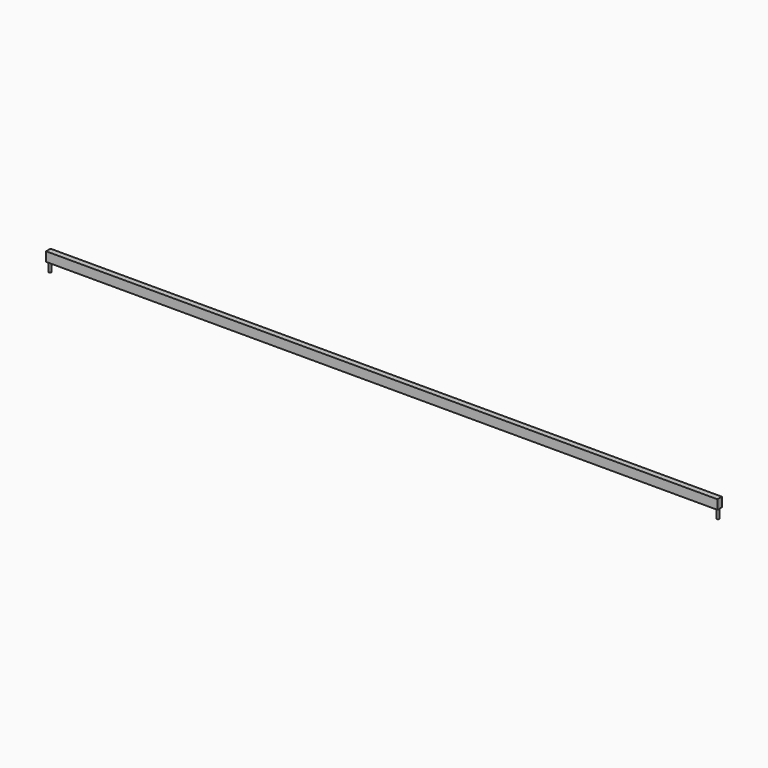
from build123d import *

# Parameters (mm, degrees)
F0_W          = 3603
F0_H          = 50
F1_DEPTH      = 15
F1_DEPTH_BACK = 15
F3_DEPTH      = 50
F4_R          = 7
F5_DEPTH      = 50


with BuildPart() as f1:
    # F0 (on Front) → F1 (new body, two sides)
    with BuildSketch(Plane.XZ) as f1_sk:
        Rectangle(F0_W, F0_H)
    extrude(amount=F1_DEPTH)
    extrude(f1_sk.sketch, amount=-F1_DEPTH_BACK)

    # F2 (on face) → F3 (join)
    with BuildSketch(Plane(origin=(0, 0, -25), x_dir=(1, 0, 0), z_dir=(0, 0, -1))):
        with BuildLine():
            ThreePointArc((-1799.5, 0), (-1792.5, -7), (-1785.5, 0))
            ThreePointArc((-1785.5, 0), (-1792.5, 7), (-1799.5, 0))
        make_face()
    extrude(amount=F3_DEPTH)

    # F4 (on face) → F5 (join)
    with BuildSketch(Plane(origin=(0, 0, -25), x_dir=(1, 0, 0), z_dir=(0, 0, -1))):
        with Locations((1792.5, 0)):
            Circle(F4_R)
    extrude(amount=F5_DEPTH)


solid = f1.part
